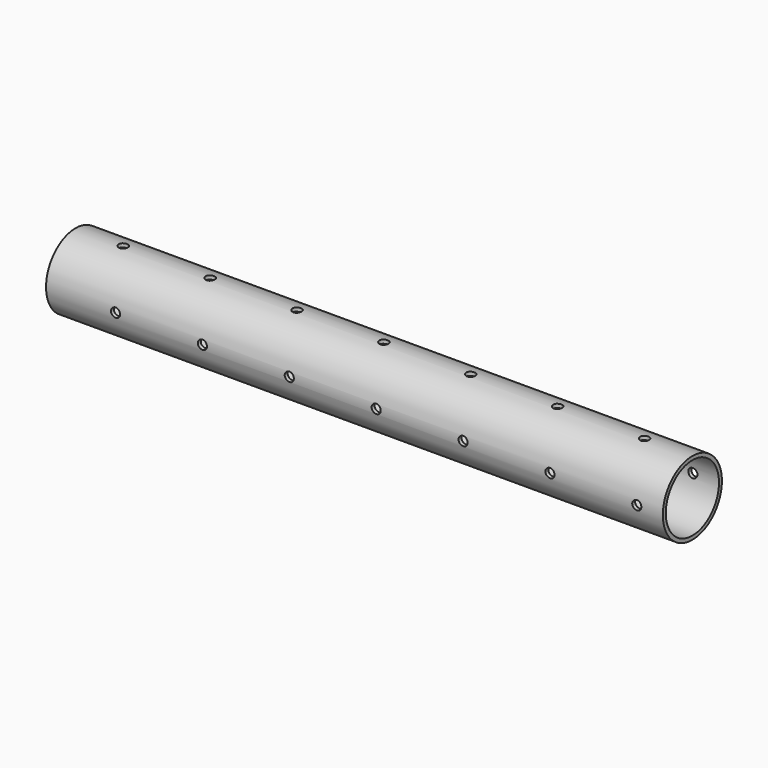
from build123d import *

# Parameters (mm, degrees)
F0_R     = 85
F0_R_2   = 76.5
F1_DEPTH = 1420
F3_D     = 21
F3_DEPTH = 1000
F3_TIP   = 6.3090364998
F5_D     = 21
F5_DEPTH = 1000
F5_START = 76.5000001
F5_TIP   = 6.3090364998
F7_D     = 21
F7_DEPTH = 100
F7_TIP   = 6.3090364998
F9_D     = 21
F9_DEPTH = 100
F9_TIP   = 6.3090364998


with BuildPart() as f1:
    # F0 (on Right) → F1 (new body)
    with BuildSketch(Plane.YZ):
        Circle(F0_R)
        Circle(F0_R_2, mode=Mode.SUBTRACT)
    extrude(amount=F1_DEPTH)

    # F3 (one way)
    with BuildSketch(Plane.XZ):
        with Locations((160, 0), (360, 0), (560, 0), (760, 0), (960, 0), (1360, 0), (1160, 0)):
            Circle(F3_D / 2)
    extrude(amount=-F3_DEPTH, mode=Mode.SUBTRACT)
    with Locations(Plane.XZ):
        with Locations((160, 0), (360, 0), (560, 0), (760, 0), (960, 0), (1360, 0), (1160, 0)):
            with Locations((0, 0, -(F3_DEPTH + F3_TIP / 2))):  # 118° drill point
                Cone(0, F3_D / 2, F3_TIP, mode=Mode.SUBTRACT)

    # F5
    # its depths count from where the whole tool has entered the part; down to there all is cleared
    with Locations(Plane(origin=(0, 0, 0), x_dir=(1, 0, 0), z_dir=(0, 1, 0)).offset(-F5_START)):
        with Locations((160, 0), (360, 0), (560, 0), (760, 0), (960, 0), (1160, 0), (1360, 0)):
            Hole(F5_D / 2, depth=F5_DEPTH)
            with Locations((0, 0, -(F5_DEPTH + F5_TIP / 2))):  # 118° drill point
                Cone(0, F5_D / 2, F5_TIP, mode=Mode.SUBTRACT)

    # F7 (one way)
    with BuildSketch(Plane(origin=(0, 0, 0), x_dir=(1, 0, 0), z_dir=(0, 0, -1))):
        with Locations((510, 0), (310, 0), (110, 0), (910, 0), (710, 0), (1110, 0), (1310, 0)):
            Circle(F7_D / 2)
    extrude(amount=-F7_DEPTH, mode=Mode.SUBTRACT)
    with Locations(Plane(origin=(0, 0, 0), x_dir=(1, 0, 0), z_dir=(0, 0, -1))):
        with Locations((510, 0), (310, 0), (110, 0), (910, 0), (710, 0), (1110, 0), (1310, 0)):
            with Locations((0, 0, -(F7_DEPTH + F7_TIP / 2))):  # 118° drill point
                Cone(0, F7_D / 2, F7_TIP, mode=Mode.SUBTRACT)

    # F9 (one way)
    with BuildSketch(Plane.XY):
        with Locations((210, 0), (410, 0), (610, 0), (810, 0), (1010, 0), (1210, 0)):
            Circle(F9_D / 2)
    extrude(amount=-F9_DEPTH, mode=Mode.SUBTRACT)
    with Locations(Plane.XY):
        with Locations((210, 0), (410, 0), (610, 0), (810, 0), (1010, 0), (1210, 0)):
            with Locations((0, 0, -(F9_DEPTH + F9_TIP / 2))):  # 118° drill point
                Cone(0, F9_D / 2, F9_TIP, mode=Mode.SUBTRACT)


solid = f1.part
